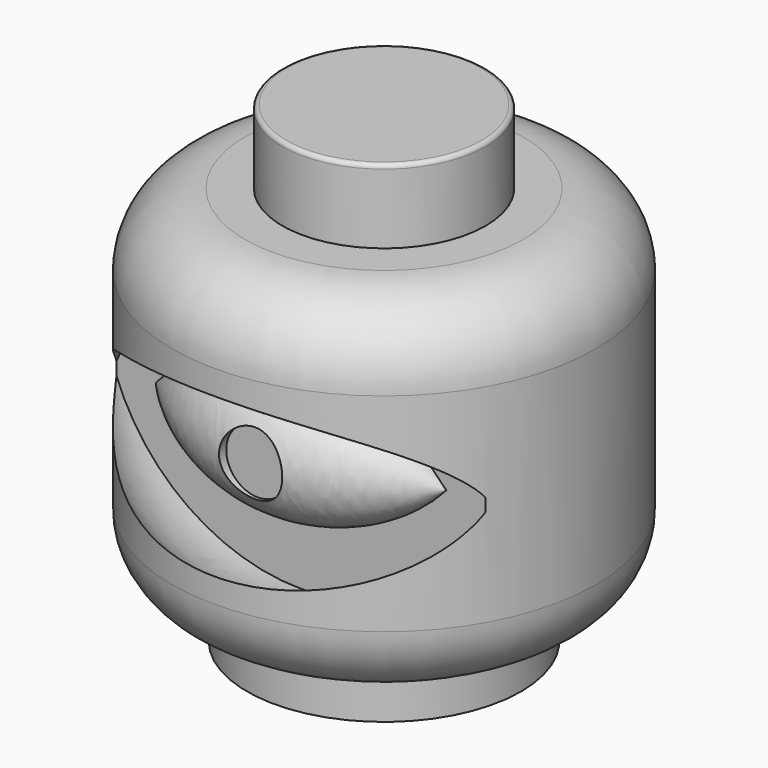
from build123d import *

# Parameters (mm, degrees)
F0_R      = 51
F1_DEPTH  = 42.5
F2_R      = 17.5
F3_R      = 24.5
F4_DEPTH  = 17.8
F5_R      = 1
F6_DEPTH  = 42.5
F7_R      = 33
F8_DEPTH  = 11
F9_R      = 24.5
F10_DEPTH = 80
F11_R     = 17.5
F17_ANGLE = 180
F19_R     = 7.6099640243
F20_DEPTH = 7
F21_R     = 24.25
F22_DEPTH = 80


with BuildPart() as f1:
    # F0 (on Top) → F1 (new body)
    with BuildSketch(Plane.XY):
        Circle(F0_R)
    extrude(amount=F1_DEPTH)

    # F2
    f2_edges = [f1.edges().sort_by_distance(p)[0] for p in [
        (-51, 0, 42.5),
    ]]
    fillet(f2_edges, radius=F2_R)

    # F3 (on face) → F4 (join)
    with BuildSketch(Plane.XY.offset(42.5)):
        Circle(F3_R)
    extrude(amount=F4_DEPTH)

    # F5
    f5_edges = [f1.edges().sort_by_distance(p)[0] for p in [
        (-24.5, 0, 60.3),
    ]]
    fillet(f5_edges, radius=F5_R)

    # F6 (add): a face of the model
    f6_faces = [f1.faces().sort_by_distance(p)[0] for p in [
        (0, 0, 0),
    ]]
    extrude(f6_faces, amount=F6_DEPTH)

    # F7 (on face) → F8 (join)
    with BuildSketch(Plane(origin=(0, 0, -42.5), x_dir=(1, 0, 0), z_dir=(0, 0, -1))):
        Circle(F7_R)
    extrude(amount=F8_DEPTH)

    # F9 (on face) → F10 (cut)
    with BuildSketch(Plane(origin=(0, 0, -53.5), x_dir=(1, 0, 0), z_dir=(0, 0, -1))):
        Circle(F9_R)
    extrude(amount=-F10_DEPTH, mode=Mode.SUBTRACT)

    # F11
    f11_edges = [f1.edges().sort_by_distance(p)[0] for p in [
        (-51, 0, -42.5),
    ]]
    fillet(f11_edges, radius=F11_R)

    # F16 (on offset) → F17 (revolve, cut)
    with BuildSketch(Plane.XZ.offset(25)):
        with BuildLine():
            Line((35, 0), (45, 0))
            ThreePointArc((45, 0), (0, 32.271534479), (-45, 0))
            Line((-45, 0), (-35, 0))
            ThreePointArc((-35, 0), (0, 15.7988658705), (35, 0))
        make_face()
    revolve(axis=Axis((0, -25, 0), (1, 0, 0)), revolution_arc=F17_ANGLE, mode=Mode.SUBTRACT)


with BuildPart() as f14:
    # F13 (on offset) → F14 (revolve)
    with BuildSketch(Plane.XZ.offset(25)):
        with BuildLine():
            Line((-35, 0), (35, 0))
            ThreePointArc((35, 0), (0, 15.4876255188), (-35, 0))
        make_face()
    revolve(axis=Axis((0, -25, 0), (1, 0, 0)))


with BuildPart() as f20_tool:
    # F19 (on offset) → F20 (new body)
    with BuildSketch(Plane.XZ.offset(45)):
        Circle(F19_R)
    extrude(amount=-F20_DEPTH)


with BuildPart() as f1_1:
    add(f1.part)

    # F20: cut by f20_tool
    add(f20_tool.part, mode=Mode.SUBTRACT)


with BuildPart() as f14_1:
    add(f14.part)

    # F20: cut by f20_tool
    add(f20_tool.part, mode=Mode.SUBTRACT)

    # F21 (on face) → F22 (cut)
    with BuildSketch(Plane(origin=(0, 0, -53.5), x_dir=(1, 0, 0), z_dir=(0, 0, -1))):
        Circle(F21_R)
    extrude(amount=-F22_DEPTH, mode=Mode.SUBTRACT)


solid = f1_1.part
